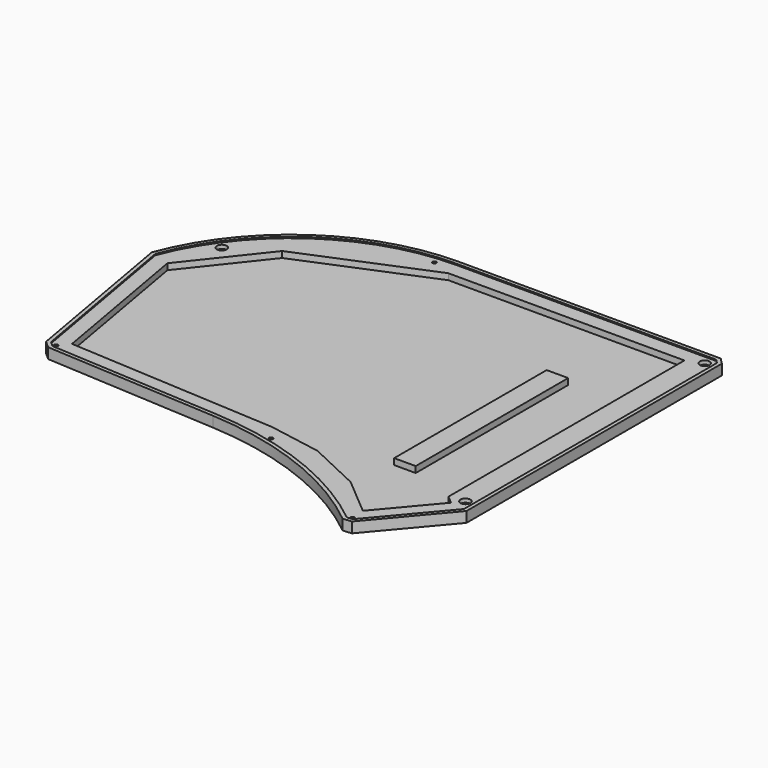
from build123d import *

# Parameters (mm, degrees)
PAD001_DEPTH         = 3.4
POCKET006_DEPTH      = 0.4
SKETCH011_R          = 1.6
SKETCH011_W          = 7
SKETCH011_H          = 62
POCKET007_DEPTH      = 2
SKETCH012_W          = 5.6
SKETCH012_H          = 5.6
POCKET008_DEPTH      = 1.8
SKETCH014_R          = 0.6
POCKET010_DEPTH      = 0.001
POCKET010_DEPTH_BACK = 3.401
SKETCH016_R          = 2
POCKET012_DEPTH      = 1


with BuildPart() as part:
    # Sketch009 → Pad001 (new body)
    with BuildSketch(Plane(origin=(-70.9, 59.5, 0), x_dir=(1, 0, 0), z_dir=(0, 0, 1))):
        with BuildLine():
            ThreePointArc((129.954505, -55.0425), (90.803609, -67.301419), (65.635795, -99.699797))
            Line((65.635795, -99.699797), (75.365663, -154.835718))
            Line((75.365663, -154.835718), (77.709881, -156.921033))
            Line((77.709881, -156.921033), (133.968943, -160.182427))
            ThreePointArc((195.00443, -183.822904), (166.343475, -167.208769), (133.968943, -160.182427))
            Line((195.00443, -183.822904), (197.834526, -183.566965))
            Line((197.834526, -183.566965), (216.95, -160.867339))
            Line((216.95, -160.867339), (216.95, -57.0425))
            Line((214.95, -55.0425), (216.95, -57.0425))
            Line((214.95, -55.0425), (129.954505, -55.0425))
        make_face()
    extrude(amount=PAD001_DEPTH)

    # Sketch010 → Pocket006 (cut)
    with BuildSketch(Plane(origin=(-70.9, 59.5, 3.4), x_dir=(1, 0, 0), z_dir=(0, 0, 1))):
        with BuildLine():
            ThreePointArc((129.954505, -56.2425), (91.621754, -68.194493), (66.874586, -99.814544))
            Line((66.874586, -99.814544), (76.474909, -154.216377))
            Line((76.474909, -154.216377), (78.195777, -155.747186))
            Line((78.195777, -155.747186), (134.038391, -158.984439))
            ThreePointArc((195.379997, -182.584043), (166.5491, -166.00184), (134.038391, -158.984439))
            Line((195.379997, -182.584043), (197.234685, -182.416314))
            Line((197.234685, -182.416314), (215.75, -160.429378))
            Line((215.75, -160.429378), (215.75, -57.539556))
            Line((215.75, -57.539556), (214.452944, -56.2425))
            Line((214.452944, -56.2425), (129.954505, -56.2425))
        make_face()
    extrude(amount=-POCKET006_DEPTH, mode=Mode.SUBTRACT)

    # Sketch011 → Pocket007 (cut)
    with BuildSketch(Plane(origin=(-70.9, 59.5, 3), x_dir=(1, 0, 0), z_dir=(0, 0, 1))):
        with Locations((212.95, -59.0425)):
            Circle(SKETCH011_R)
        with Locations((212.95, -156.302532)):
            Circle(SKETCH011_R)
        with Locations((77.4441, -85.981596)):
            Circle(SKETCH011_R)
        Polygon((72.012841, -101.311041), (90.572874, -77.866788), (131.149099, -61.0425), (207.95, -61.0425), (207.95, -87.0425), (207.95, -156.967837), (210.542474, -159.161469), (195.830749, -176.631643), (183.495202, -166.193872), (166.255124, -158.080894), (149.066225, -155.047559), (80.797353, -151.089943), align=None)
        with Locations((187.45, -118.0425)):
            Rectangle(SKETCH011_W, SKETCH011_H, mode=Mode.SUBTRACT)
    extrude(amount=-POCKET007_DEPTH, mode=Mode.SUBTRACT)

    # Sketch012 → Pocket008 (cut)
    with BuildSketch(Plane(origin=(-70.9, 59.5, 0), x_dir=(1, 0, 0), z_dir=(0, 0, 1))):
        Polygon((81.377006, -85.514821), (76.978793, -82.04845), (73.512422, -86.446662), (77.910635, -89.913033), align=None)
        with Locations((212.95, -59.0425)):
            Rectangle(SKETCH012_W, SKETCH012_H)
        with Locations((212.95, -156.302532)):
            Rectangle(SKETCH012_W, SKETCH012_H)
    extrude(amount=POCKET008_DEPTH, mode=Mode.SUBTRACT)

    # Sketch014 → Pocket010 (cut, two sides)
    with BuildSketch(Plane(origin=(-70.9, 59.5, 0), x_dir=(1, 0, 0), z_dir=(0, 0, 1))) as pocket010_sk:
        with Locations((78.157217, -154.251862)):
            Circle(SKETCH014_R)
        with Locations((152.755217, -160.120567)):
            Circle(SKETCH014_R)
        with Locations((124.670042, -58.583126)):
            Circle(SKETCH014_R)
        with Locations((196.202376, -181.31749)):
            Circle(SKETCH014_R)
    extrude(amount=-POCKET010_DEPTH, mode=Mode.SUBTRACT)
    extrude(pocket010_sk.sketch, amount=POCKET010_DEPTH_BACK, mode=Mode.SUBTRACT)

    # Sketch016 → Pocket012 (cut)
    with BuildSketch(Plane(origin=(-70.9, 59.5, 0), x_dir=(1, 0, 0), z_dir=(0, 0, 1))):
        with Locations((78.157217, -154.251862)):
            Circle(SKETCH016_R)
        with Locations((152.755217, -160.120567)):
            Circle(SKETCH016_R)
        with Locations((124.670042, -58.583126)):
            Circle(SKETCH016_R)
        with Locations((196.202376, -181.31749)):
            Circle(SKETCH016_R)
    extrude(amount=POCKET012_DEPTH, mode=Mode.SUBTRACT)


with BuildPart() as part_1:
    # Body001 placement: moved
    add(part.part.moved(Location((0, 0, -3))))


solid = part_1.part
